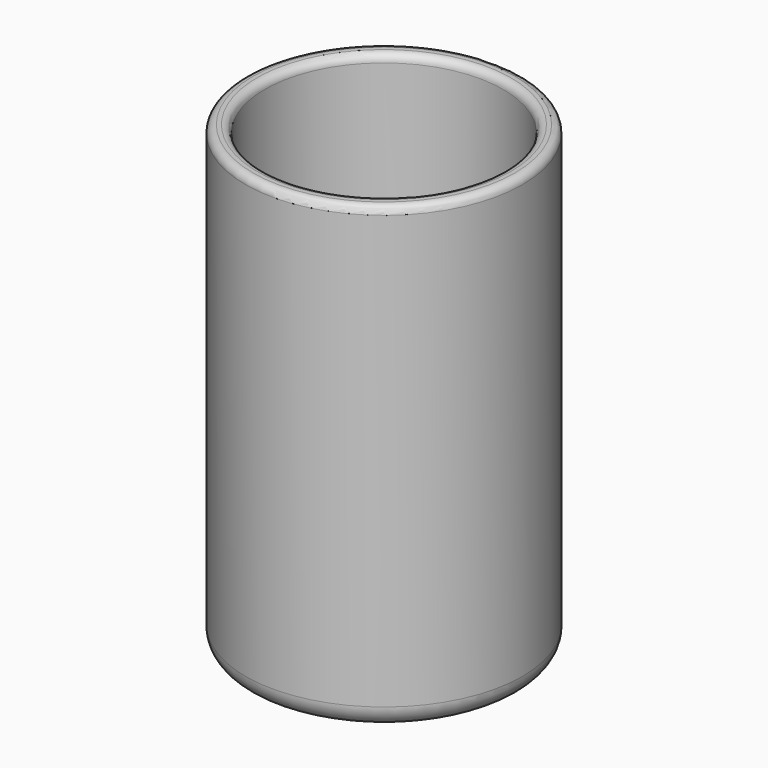
from build123d import *

# Parameters (mm, degrees)
F0_R     = 45
F1_DEPTH = 150
F2_R     = 38.7
F4_DEPTH = 143.5
F5_R     = 2.5
F6_R     = 7


with BuildPart() as f1:
    # F0 (on Top) → F1 (new body)
    with BuildSketch(Plane.XY):
        Circle(F0_R)
    extrude(amount=F1_DEPTH)

    # F2 (on face) → F4 (cut, through all)
    with BuildSketch(Plane.XY.offset(150)):
        Circle(F2_R)
    extrude(amount=-F4_DEPTH, mode=Mode.SUBTRACT)

    # F5
    f5_edges = [f1.edges().sort_by_distance(p)[0] for p in [
        (-45, 0, 150),
        (-38.7, 0, 150),
    ]]
    fillet(f5_edges, radius=F5_R)

    # F6
    f6_edges = [f1.edges().sort_by_distance(p)[0] for p in [
        (-38.7, 0, 6.5),
        (-45, 0, 0),
    ]]
    fillet(f6_edges, radius=F6_R)


solid = f1.part
